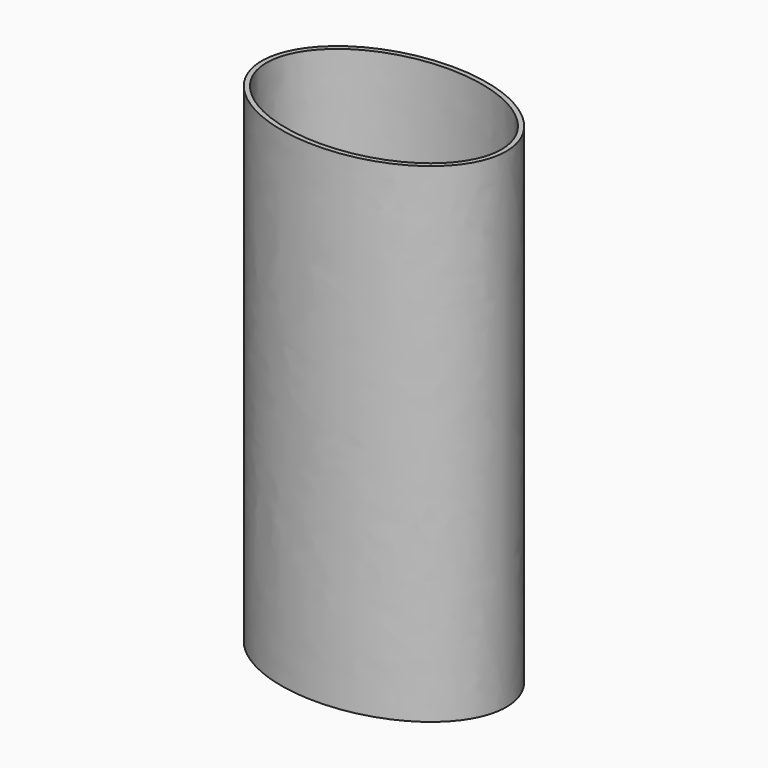
from build123d import *

# Parameters (mm, degrees)
F1_DEPTH = 100


with BuildPart() as f1:
    # F0 (on Top) → F1 (new body)
    with BuildSketch(Plane.XY):
        with BuildLine():
            add(Edge.make_bspline(
                [(25, 0), (25, 30.310889), (-12.5, 15.155445), (-50, 0), (-12.5, -15.155445), (25, -30.310889), (25, 0)],
                knots=[0, 0, 0, 2.094395, 2.094395, 4.18879, 4.18879, 6.283185, 6.283185, 6.283185], degree=2, weights=[1, 0.5, 1, 0.5, 1, 0.5, 1]))
        make_face()
        with BuildLine():
            add(Edge.make_bspline(
                [(24, 0), (24, 28.578838), (-12, 14.289419), (-48, 0), (-12, -14.289419), (24, -28.578838), (24, 0)],
                knots=[0, 0, 0, 2.094395, 2.094395, 4.18879, 4.18879, 6.283185, 6.283185, 6.283185], degree=2, weights=[1, 0.5, 1, 0.5, 1, 0.5, 1]))
        make_face(mode=Mode.SUBTRACT)
    extrude(amount=F1_DEPTH)


solid = f1.part
